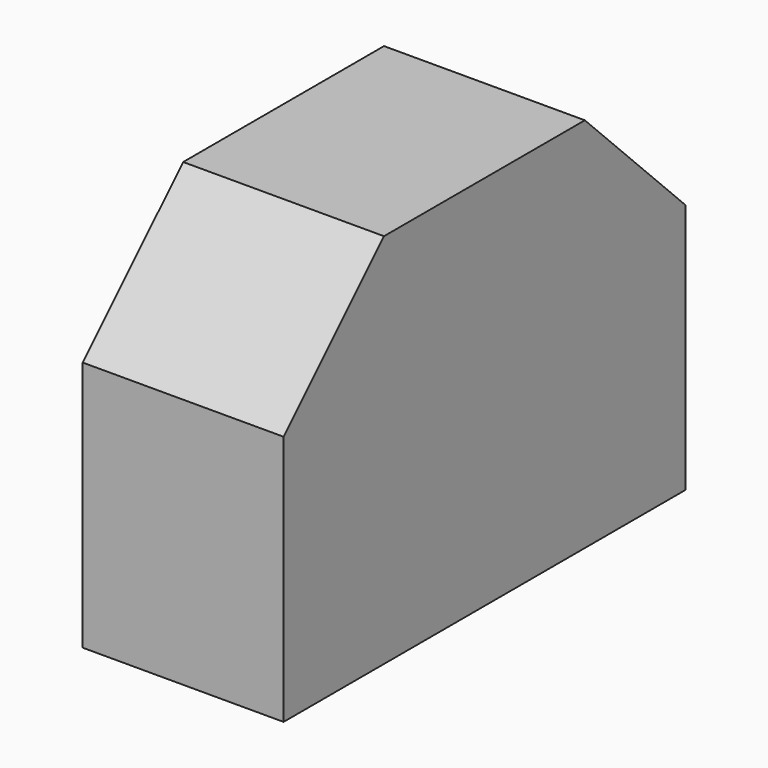
from build123d import *

# Parameters (mm, degrees)
F0_W     = 80
F0_H     = 200
F1_DEPTH = 150
F2_SIZE  = 50


with BuildPart() as f1:
    # F0 (on Top) → F1 (new body)
    with BuildSketch(Plane.XY):
        with Locations((40, -100)):
            Rectangle(F0_W, F0_H)
    extrude(amount=F1_DEPTH)

    # F2
    f2_edges = [f1.edges().sort_by_distance(p)[0] for p in [
        (40, 0, 150),
        (40, -200, 150),
    ]]
    chamfer(f2_edges, length=F2_SIZE)


solid = f1.part
